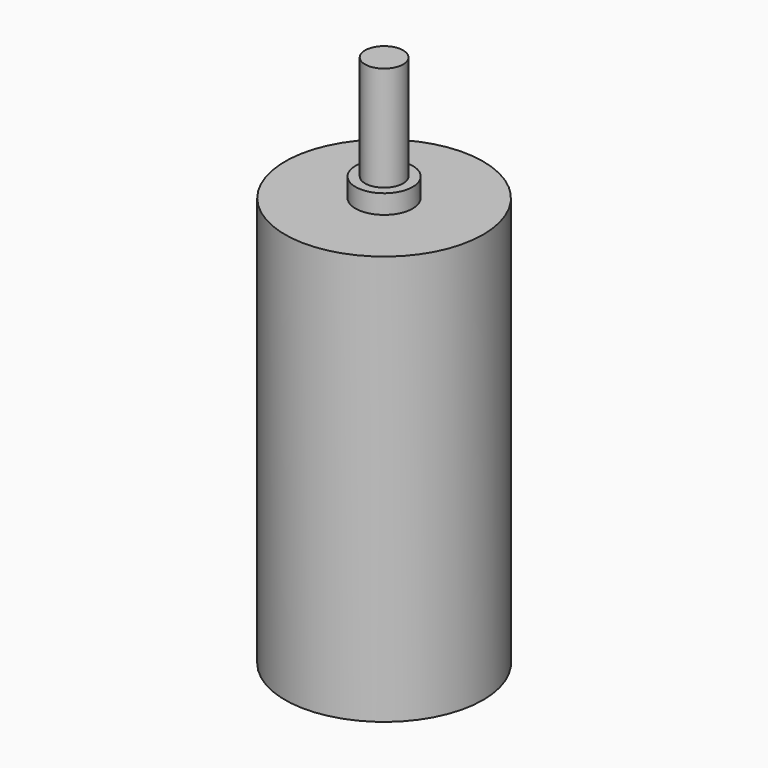
from build123d import *

# Parameters (mm, degrees)
SKETCH_R     = 10.4
PAD_DEPTH    = 43
SKETCH001_R  = 3
PAD001_DEPTH = 2
SKETCH002_R  = 2
PAD002_DEPTH = 11


with BuildPart() as part:
    # Sketch → Pad (new body)
    with BuildSketch(Plane.XY):
        Circle(SKETCH_R)
    extrude(amount=PAD_DEPTH)

    # Sketch001 (on Face3 of Pad) → Pad001 (join)
    with BuildSketch(Plane.XY.offset(43)):
        Circle(SKETCH001_R)
    extrude(amount=PAD001_DEPTH)

    # Sketch002 (on Face5 of Pad001) → Pad002 (join)
    with BuildSketch(Plane.XY.offset(45)):
        Circle(SKETCH002_R)
    extrude(amount=PAD002_DEPTH)


with BuildPart() as part_1:
    # Body placement: moved
    add(part.part.moved(Location((0, -8, 0))))


solid = part_1.part
